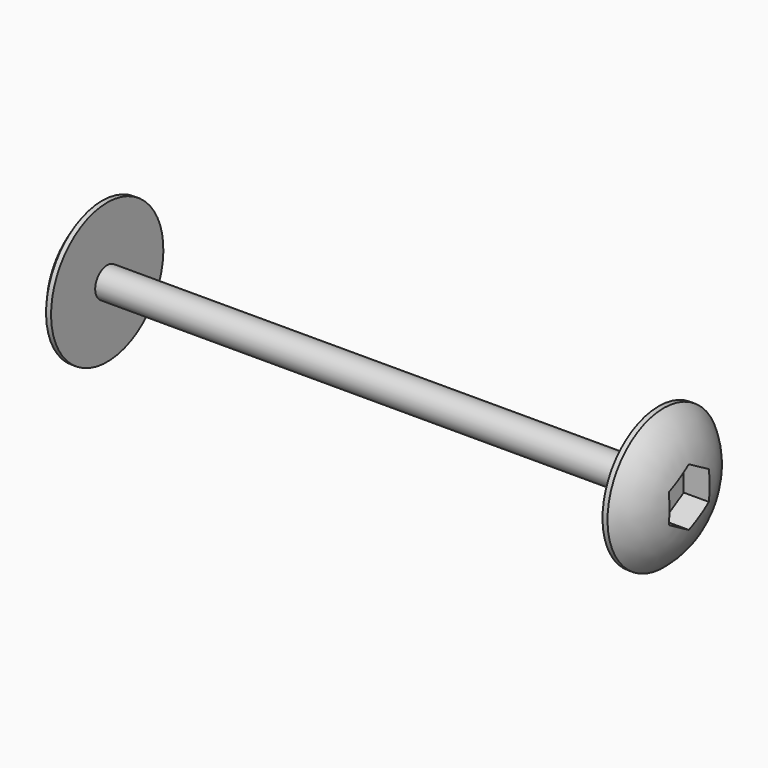
from build123d import *

# Parameters (mm, degrees)
EXTRUDE002_DEPTH = 3


with BuildPart() as axle_hex_extrude:
    # Sketch009 → Extrude002 (new body)
    with BuildSketch(Plane.YZ.offset(31)):
        Polygon((-48.5, -42.556624), (-51, -41.113249), (-53.5, -42.556624), (-53.5, -45.443376), (-51, -46.886751), (-48.5, -45.443376), align=None)
    extrude(amount=-EXTRUDE002_DEPTH)


with BuildPart() as axle_front:
    # Sketch008 → Revolve001 (revolve)
    with BuildSketch(Plane.XZ.offset(51)):
        with BuildLine():
            Line((27.5, -42.5), (-27.5, -42.5))
            Line((-27.5, -42.5), (-27.5, -37))
            Line((-27.5, -37), (-28, -37))
            ThreePointArc((-28, -37), (-29.86452, -40.281569), (-30.511358, -44))
            Line((-30.511358, -44), (30.511358, -44))
            ThreePointArc((30.511358, -44), (30.236308, -40.148184), (28, -37))
            Line((27.5, -37), (28, -37))
            Line((27.5, -42.5), (27.5, -37))
        make_face()
    revolve(axis=Axis((2, -51, -44), (1, 0, 0)))

    # Cut: cut axle-hex-extrude
    add(axle_hex_extrude.part, mode=Mode.SUBTRACT)


with BuildPart() as axle_back:
    # Part__Mirroring001: instance of axle-front
    add(axle_front.part.mirror(Plane(origin=(0, 0, 0), x_dir=(1, 0, 0), z_dir=(0, 1, 0))))


solid = axle_back.part
